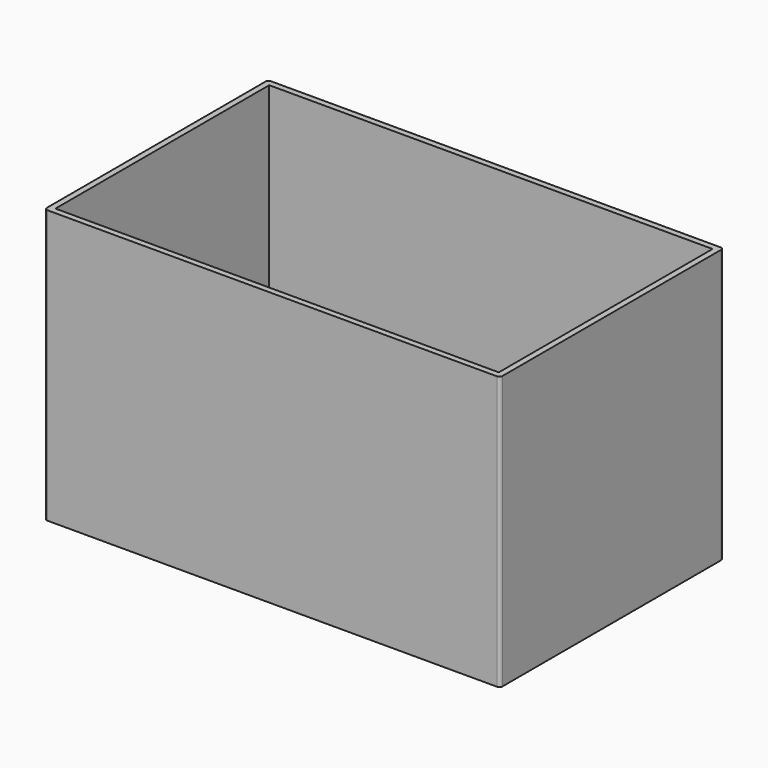
from build123d import *

# Parameters (mm, degrees)
F0_W     = 730
F0_H     = 440
F1_DEPTH = 30
F0_W_2   = 750
F0_H_2   = 460
F2_DEPTH = 450
F3_R     = 5


with BuildPart() as f1:
    # F0 (on Top) → F1 (new body)
    with BuildSketch(Plane.XY):
        with Locations((-1.938822, 0)):
            Rectangle(F0_W, F0_H)
    extrude(amount=F1_DEPTH)

    # F0 (on Top) → F2 (join)
    with BuildSketch(Plane.XY):
        with Locations((-1.938822, 0)):
            Rectangle(F0_W_2, F0_H_2)
        with Locations((-1.938822, 0)):
            Rectangle(F0_W, F0_H, mode=Mode.SUBTRACT)
    extrude(amount=F2_DEPTH)

    # F3
    f3_edges = [f1.edges().sort_by_distance(p)[0] for p in [
        (-376.938822, -230, 225),
        (373.061178, -230, 225),
        (373.061178, 230, 225),
        (-376.938822, 230, 225),
    ]]
    fillet(f3_edges, radius=F3_R)


solid = f1.part
